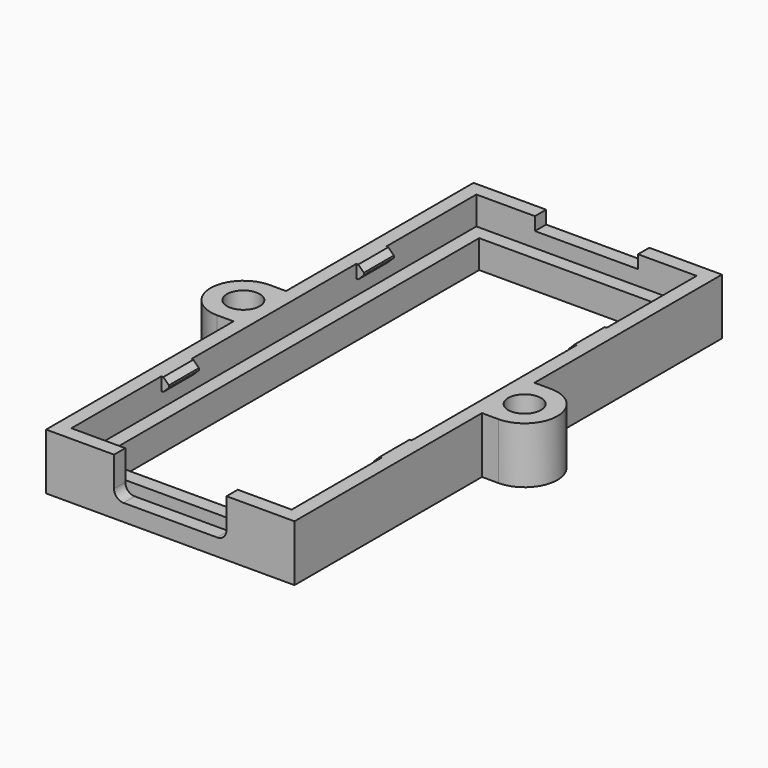
from build123d import *

# Parameters (mm, degrees)
SKETCH_R        = 1.75
SKETCH_W        = 20.5
SKETCH_H        = 51
PAD_DEPTH       = 6
SKETCH001_W     = 23.5
SKETCH001_H     = 54
POCKET_DEPTH    = 3
SKETCH002_W     = 0.8
SKETCH002_H     = 4
PAD001_DEPTH    = 1.4
CHAMFER_SIZE    = 0.59
SKETCH003_W     = 12
SKETCH003_H     = 2
POCKET001_DEPTH = 4.2
SKETCH004_W     = 11
SKETCH004_H     = 2
POCKET002_DEPTH = 1.4
FILLET_R        = 1


with BuildPart() as part:
    # Sketch → Pad (new body)
    with BuildSketch(Plane.XY):
        with BuildLine():
            Line((-13.25, 28.5), (13.25, 28.5))
            Line((13.25, 28.5), (13.25, 3.5))
            Line((15, 3.5), (13.25, 3.5))
            ThreePointArc((15, -3.5), (18.5, 0), (15, 3.5))
            Line((13.25, -3.5), (15, -3.5))
            Line((13.25, -3.5), (13.25, -28.5))
            Line((13.25, -28.5), (-13.25, -28.5))
            Line((-13.25, -28.5), (-13.25, -3.5))
            Line((-15, -3.5), (-13.25, -3.5))
            ThreePointArc((-15, 3.5), (-18.5, 0), (-15, -3.5))
            Line((-13.25, 3.5), (-15, 3.5))
            Line((-13.25, 3.5), (-13.25, 28.5))
        make_face()
        with Locations((-15, 0)):
            Circle(SKETCH_R, mode=Mode.SUBTRACT)
        with Locations((15, 0)):
            Circle(SKETCH_R, mode=Mode.SUBTRACT)
        Rectangle(SKETCH_W, SKETCH_H, mode=Mode.SUBTRACT)
    extrude(amount=PAD_DEPTH)

    # Sketch001 (on Face20 of Pad) → Pocket (cut)
    with BuildSketch(Plane.XY.offset(6)):
        Rectangle(SKETCH001_W, SKETCH001_H)
    extrude(amount=-POCKET_DEPTH, mode=Mode.SUBTRACT)

    # Sketch002 (on Face5 of Pocket) → Pad001 (join)
    with BuildSketch(Plane.XY.offset(6)):
        with Locations((-11.35, 13)):
            Rectangle(SKETCH002_W, SKETCH002_H)
        with Locations((-11.35, -13)):
            Rectangle(SKETCH002_W, SKETCH002_H)
        with Locations((11.35, -13)):
            Rectangle(SKETCH002_W, SKETCH002_H)
        with Locations((11.35, 13)):
            Rectangle(SKETCH002_W, SKETCH002_H)
    extrude(amount=-PAD001_DEPTH)

    # Chamfer
    chamfer_edges = [part.edges().sort_by_distance(p)[0] for p in [
        (-10.95, -13, 4.6),
        (-10.95, -13, 6),
        (-10.95, 13, 4.6),
        (-10.95, 13, 6),
        (10.95, 13, 6),
        (10.95, 13, 4.6),
        (10.95, -13, 6),
        (10.95, -13, 4.6),
    ]]
    chamfer(chamfer_edges, length=CHAMFER_SIZE)

    # Sketch003 (on Face4 of Chamfer) → Pocket001 (cut)
    with BuildSketch(Plane.XY.offset(6)):
        with Locations((0, -28)):
            Rectangle(SKETCH003_W, SKETCH003_H)
    extrude(amount=-POCKET001_DEPTH, mode=Mode.SUBTRACT)

    # Sketch004 (on Face4 of Pocket001) → Pocket002 (cut)
    with BuildSketch(Plane.XY.offset(6)):
        with Locations((0, 28)):
            Rectangle(SKETCH004_W, SKETCH004_H)
    extrude(amount=-POCKET002_DEPTH, mode=Mode.SUBTRACT)

    # Fillet
    fillet_edges = [part.edges().sort_by_distance(p)[0] for p in [
        (-6, -27.75, 1.8),
        (6, -27.75, 1.8),
    ]]
    fillet(fillet_edges, radius=FILLET_R)


solid = part.part
